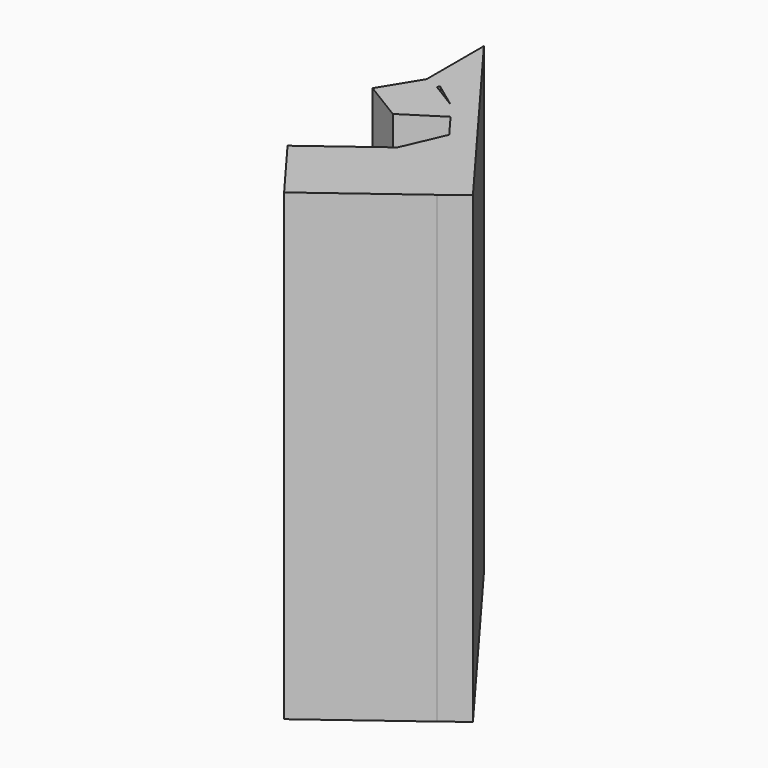
from build123d import *

# Parameters (mm, degrees)
F1_DEPTH = 254
F2_DEPTH = 65.532
F3_DEPTH = 25.4


with BuildPart() as f1:
    # F0 (on Top) → F1 (new body)
    with BuildSketch(Plane.XY):
        Polygon((-40.7700149094, 2.0136271135), (-123.3497112989, 112.7550974488), (-123.3497112989, 61.7054067552), (-114.4973933697, 71.8195125399), (-100.8444875479, 61.7054067552), (-114.4973933697, 39.3378809094), (-93.5864523053, 52.7165209869), (-83.6100267408, 39.3378809094), (-93.5864523053, 16.3773968816), (-78.7674486637, 27.4278987199), (-52.8872246498, -7.2781390256), align=None)
    extrude(amount=F1_DEPTH)

    # F2 (add): a face of the model
    f2_faces = [f1.faces().sort_by_distance(p)[0] for p in [
        (-65.8273366568, 10.0748798471, 127),
    ]]
    extrude(f2_faces, amount=F2_DEPTH)

    # F3 (add): a face of the model
    f3_faces = [f1.faces().sort_by_distance(p)[0] for p in [
        (-107.6709404588, 50.5216438323, 127),
    ]]
    extrude(f3_faces, amount=F3_DEPTH)


solid = f1.part
